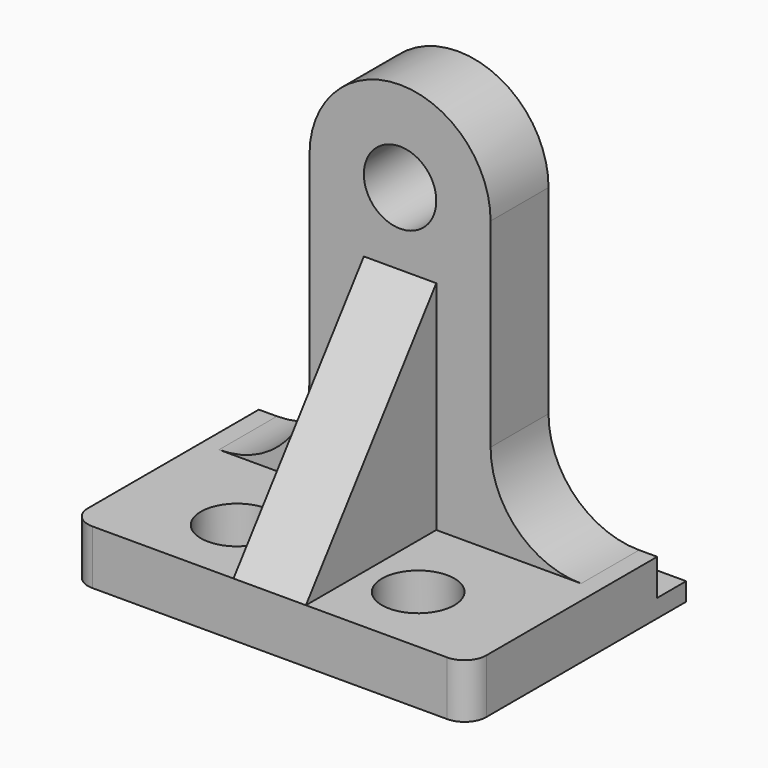
from build123d import *

# Parameters (mm, degrees)
F0_R          = 10
F1_DEPTH      = 15
F3_START      = -10
F2_R          = 10
F3_DEPTH      = 20
F5_DEPTH      = 10
F5_DEPTH_BACK = 10
F6_W          = 10
F6_H          = 10
F7_DEPTH      = 110.001


with BuildPart() as f1:
    # F0 (on Top) → F1 (new body)
    with BuildSketch(Plane.XY):
        with BuildLine():
            Line((55, 75), (-55, 75))
            Line((-55, 75), (-55, 6))
            ThreePointArc((-55, 6), (-53.2426406871, 1.7573593129), (-49, 0))
            Line((-49, 0), (49, 0))
            ThreePointArc((49, 0), (53.2426406871, 1.7573593129), (55, 6))
            Line((55, 6), (55, 75))
        make_face()
        with Locations((-25, 20)):
            Circle(F0_R, mode=Mode.SUBTRACT)
        with BuildLine():
            ThreePointArc((15, 20), (25, 30), (35, 20))
            ThreePointArc((35, 20), (25, 10), (15, 20))
        make_face(mode=Mode.SUBTRACT)
    extrude(amount=F1_DEPTH)

    # F2 (on face) → F3 (join)
    with BuildSketch(Plane(origin=(0, 75, 0), x_dir=(-1, 0, 0), z_dir=(0, 1, 0)).offset(F3_START)):
        with BuildLine():
            ThreePointArc((50, 15), (32.3223304703, 22.3223304703), (25, 40))
            Line((25, 40), (25, 95))
            ThreePointArc((25, 95), (0, 120), (-25, 95))
            Line((-25, 95), (-25, 40))
            ThreePointArc((-25, 40), (-32.3223304703, 22.3223304703), (-50, 15))
            Line((-50, 15), (50, 15))
        make_face()
        with Locations((0, 95)):
            Circle(F2_R, mode=Mode.SUBTRACT)
    extrude(amount=-F3_DEPTH)

    # F4 (on Right) → F5 (join, two sides)
    with BuildSketch(Plane.YZ) as f5_sk:
        Polygon((45, 75), (0, 15), (45, 15), align=None)
    extrude(amount=F5_DEPTH)
    extrude(f5_sk.sketch, amount=-F5_DEPTH_BACK)

    # F6 (on face) → F7 (cut, through all)
    with BuildSketch(Plane.YZ.offset(55)):
        with Locations((70, 10)):
            Rectangle(F6_W, F6_H)
    extrude(amount=-F7_DEPTH, mode=Mode.SUBTRACT)


solid = f1.part
